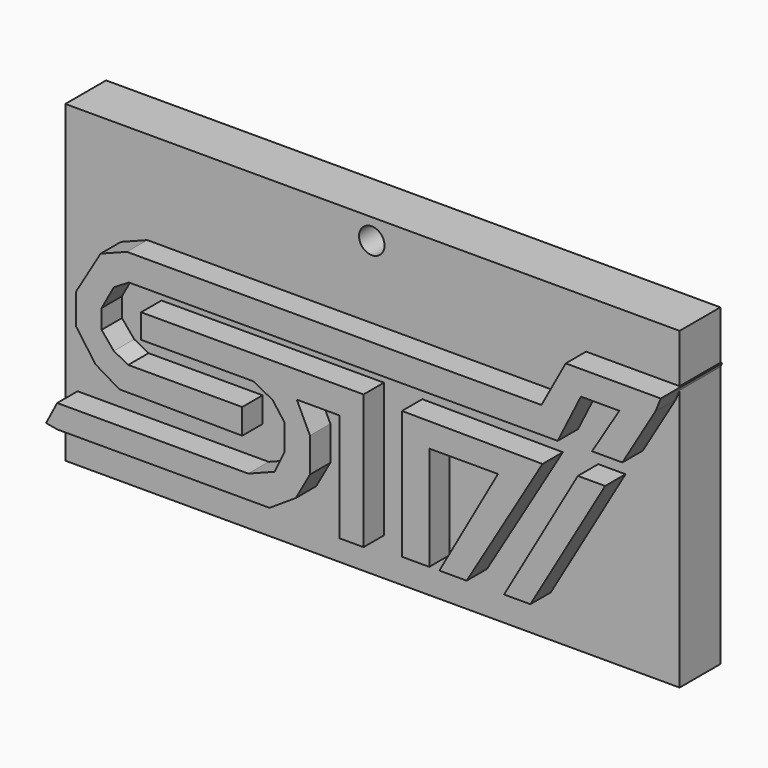
from build123d import *

# Parameters (mm, degrees)
F1_DEPTH = 19.05
F2_W     = 153.112665
F2_H     = 78.283168
F3_DEPTH = 12.7
F5_D     = 6.35


with BuildPart() as f1:
    # F0 (on Front) → F1 (new body)
    with BuildSketch(Plane.XZ):
        Polygon((63.252002, 10.206), (56.448001, 10.206), (38.052004, -21.798), (44.604003, -21.798), align=None)
        Polygon((47.628, 9.954001), (12.599998, 10.206), (12.599998, -21.798), (19.404003, -21.798), (19.404003, 4.158), (36.539998, 4.158), (21.923998, -21.798), (28.728003, -21.798), align=None)
        Polygon((-51.435247, -7.970991), (-27.216, -8.19), (-27.216, -1.89), (-52.416001, -1.89), (-55.629002, -1.89), (-59.220001, 0), (-62.264539, 3.654), (-62.264539, 8.441675), (-59.220001, 13.989256), (-55.456687, 16.25872), (-51.171839, 16.25872), (51.407997, 16.25872), (57.204001, 27.858207), (66.780001, 27.858207), (59.976004, 16.763045), (67.535996, 16.763045), (75.817332, 30.719556), (77.112004, 33.910114), (53.422719, 33.910114), (47.369506, 22.814952), (-55.95747, 22.814952), (-62.511459, 20.293325), (-64.713446, 16.582323), (-68.669866, 9.91458), (-68.669866, 2.389768), (-63.782178, -4.418626), (-57.795388, -7.970991), align=None)
        Polygon((-73.332004, -16.002001), (-76.104, -21.294001), (-73.332004, -21.798), (-25.200002, -21.798), (-20.412, -21.798), (-13.860001, -17.514), (-10.332, -11.214), (-10.332, -2.646), (-13.608, 4.158), (-3.024, 4.158), (-3.024, -22.806), (3.024, -22.806), (3.024, 10.71), (-52.416001, 10.71), (-52.416001, 4.662), (-24.443999, 4.662), (-19.656001, 2.142), (-16.632, -1.89), (-16.632, -8.19), (-19.151999, -13.482001), (-25.704, -16.002001), align=None)
    extrude(amount=F1_DEPTH)


with BuildPart() as f3:
    # F2 (on Front) → F3 (new body)
    with BuildSketch(Plane.XZ):
        with Locations((0.168196, 6.90734)):
            Rectangle(F2_W, F2_H)
    extrude(amount=F3_DEPTH)

    # F5 (through all)
    with Locations(Plane.XZ.offset(12.7)):
        with Locations((0, 40.868416)):
            Hole(F5_D / 2)


solid = Compound([f1.part, f3.part])
